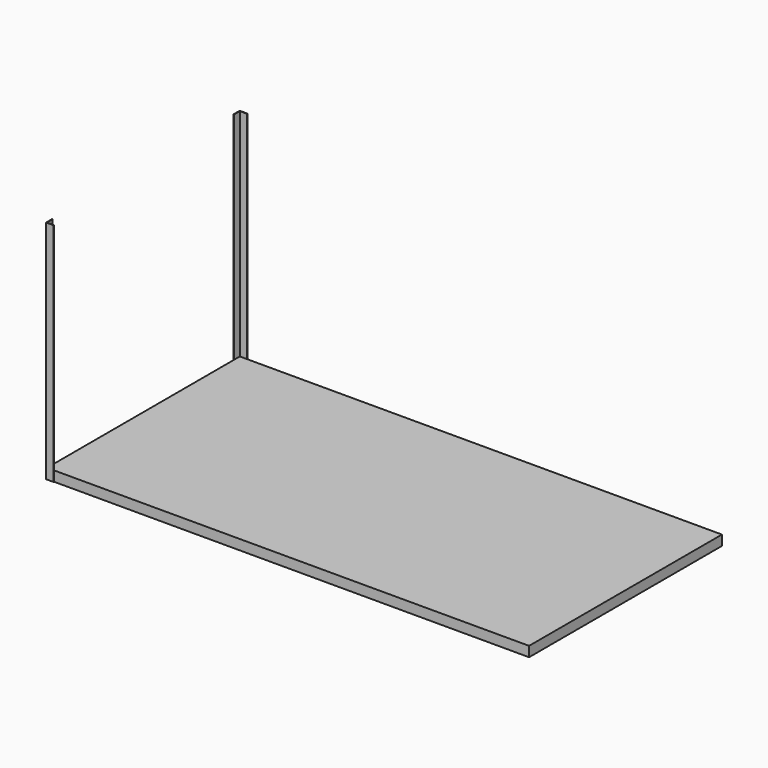
from build123d import *

# Parameters (mm, degrees)
F0_W     = 2438.4
F0_H     = 1219.2
F1_DEPTH = 50.8
F3_DEPTH = 1143


with BuildPart() as f1:
    # F0 (on Top) → F1 (new body)
    with BuildSketch(Plane.XY):
        Rectangle(F0_W, F0_H)
    extrude(amount=F1_DEPTH)

    # F2 (on face) → F3 (join)
    with BuildSketch(Plane(origin=(0, 0, 0), x_dir=(1, 0, 0), z_dir=(0, 0, -1))):
        Polygon((-1183.64, 612.14), (-1221.74, 612.14), (-1221.74, 574.04), (-1219.2, 574.04), (-1219.2, 609.6), (-1183.64, 609.6), align=None)
    extrude(amount=-F3_DEPTH)

    # F4: F1 across plane


with BuildPart() as f1_1:
    add(f1.part)
    add(f1.part.mirror(Plane.XZ))


solid = f1_1.part
